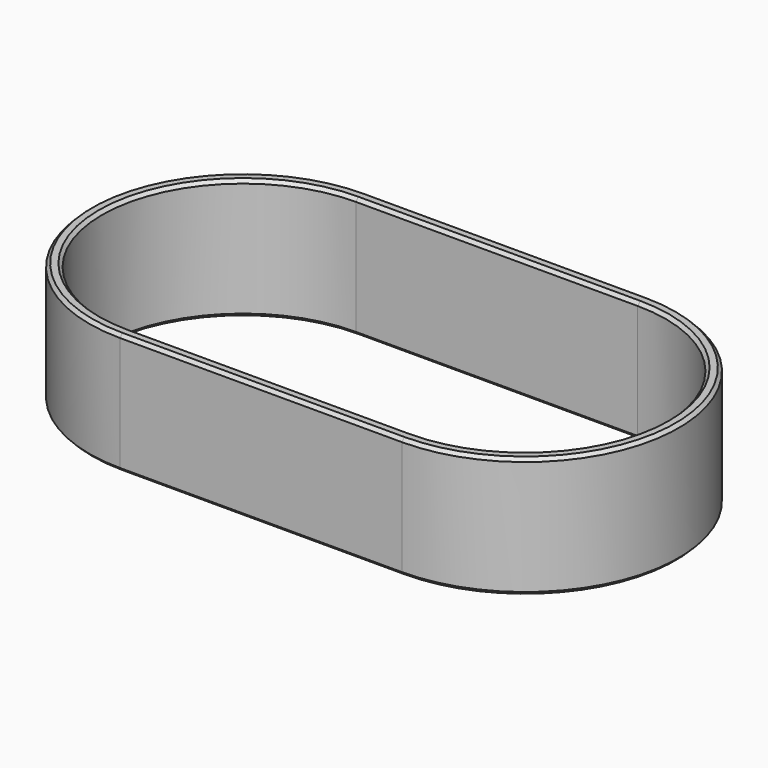
from build123d import *

# Parameters (mm, degrees)
PAD_DEPTH    = 15
CHAMFER_SIZE = 0.4


with BuildPart() as part:
    # Sketch → Pad (new body)
    with BuildSketch(Plane.XY):
        with BuildLine():
            ThreePointArc((-17.5, 19.1), (-36.6, 0), (-17.5, -19.1))
            Line((-17.5, -19.1), (17.5, -19.1))
            ThreePointArc((17.5, -19.1), (36.6, 0), (17.5, 19.1))
            Line((-17.5, 19.1), (17.5, 19.1))
        make_face()
        with BuildLine():
            ThreePointArc((-17.5, 17.5), (-35, 0), (-17.5, -17.5))
            Line((-17.5, -17.5), (17.5, -17.5))
            ThreePointArc((17.5, -17.5), (35, 0), (17.5, 17.5))
            Line((-17.5, 17.5), (17.5, 17.5))
        make_face(mode=Mode.SUBTRACT)
    extrude(amount=PAD_DEPTH)

    # Chamfer
    chamfer_edges = [part.edges().sort_by_distance(p)[0] for p in [
        (-36.6, 0, 15),
        (0, -19.1, 15),
        (36.6, 0, 15),
        (0, 19.1, 15),
        (-35, 0, 15),
        (0, -17.5, 15),
        (35, 0, 15),
        (0, 17.5, 15),
        (-36.6, 0, 0),
        (0, -19.1, 0),
        (36.6, 0, 0),
        (0, 19.1, 0),
        (-35, 0, 0),
        (0, -17.5, 0),
        (35, 0, 0),
        (0, 17.5, 0),
    ]]
    chamfer(chamfer_edges, length=CHAMFER_SIZE)


solid = part.part
